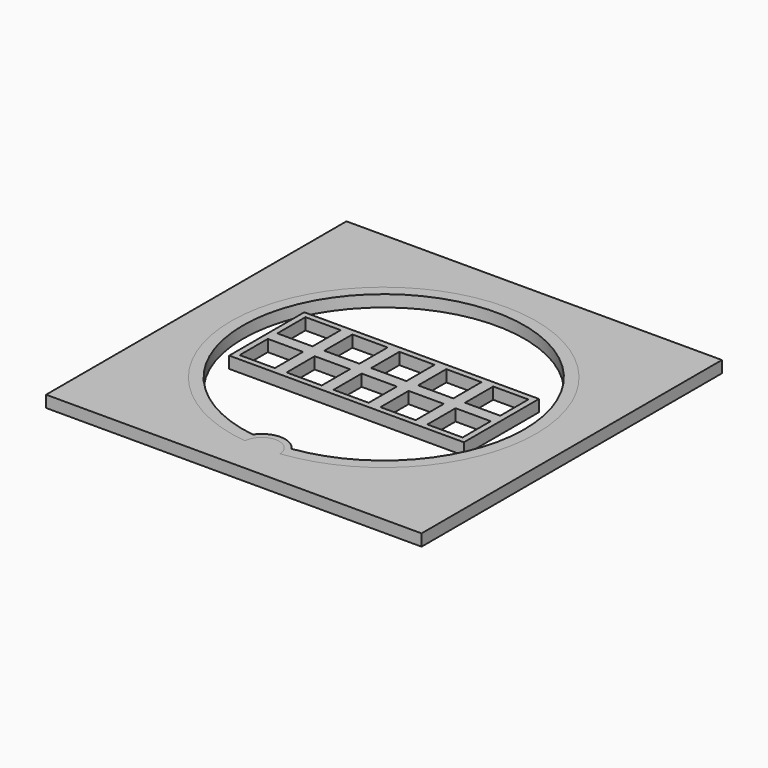
from build123d import *

# Parameters (mm, degrees)
F0_W     = 3
F0_H     = 3
F1_DEPTH = 1
F0_W_2   = 32
F0_H_2   = 32
F2_DEPTH = 1


with BuildPart() as f1:
    # F0 (on Top) → F1 (new body)
    with BuildSketch(Plane.XY):
        Polygon((10, 3.5), (10, 4), (6.5, 4), (6, 4), (2.5, 4), (2, 4), (-1.5, 4), (-2, 4), (-5.5, 4), (-6, 4), (-6.5, 4), (-9.5, 4), (-10, 4), (-10, 3.5), (-10, -0.0124705449), (-10, -0.5124705449), (-10, -4), (-6.5, -4), (-6, -4), (-5.5, -4), (-2, -4), (-1.5, -4), (2, -4), (2.5, -4), (6, -4), (6.5, -4), (10, -4), (10, -0.5124705449), (10, -0.0124705449), align=None)
        with Locations((-8, -2.0124705449)):
            Rectangle(F0_W, F0_H, mode=Mode.SUBTRACT)
        with Locations((-4, -2.0124705449)):
            Rectangle(F0_W, F0_H, mode=Mode.SUBTRACT)
        with Locations((0, -2.0124705449)):
            Rectangle(F0_W, F0_H, mode=Mode.SUBTRACT)
        with Locations((4, -2.0124705449)):
            Rectangle(F0_W, F0_H, mode=Mode.SUBTRACT)
        with Locations((8, -2.0124705449)):
            Rectangle(F0_W, F0_H, mode=Mode.SUBTRACT)
        with Locations((-8, 2)):
            Rectangle(F0_W, F0_H, mode=Mode.SUBTRACT)
        with Locations((-4, 2)):
            Rectangle(F0_W, F0_H, mode=Mode.SUBTRACT)
        with Locations((0, 2)):
            Rectangle(F0_W, F0_H, mode=Mode.SUBTRACT)
        with Locations((4, 2)):
            Rectangle(F0_W, F0_H, mode=Mode.SUBTRACT)
        with Locations((8, 2)):
            Rectangle(F0_W, F0_H, mode=Mode.SUBTRACT)
    extrude(amount=F1_DEPTH)


with BuildPart() as f1b:
    # F0 (on Top) → F1, piece 2 (new body)
    with BuildSketch(Plane.XY):
        with BuildLine():
            ThreePointArc((-1.5083979477, -12.9394788722), (-0.0108963301, -11.5260173337), (1.4866052875, -12.9394788722))
            ThreePointArc((1.4866052875, -12.9394788722), (-0.0108963301, 12.9739826663), (-1.5083979477, -12.9394788722))
        make_face()
        with BuildLine():
            ThreePointArc((-1.6663219417, -11.9037134335), (-0.0108963301, 11.9664844317), (1.6445292815, -11.9037134335))
            ThreePointArc((1.6445292815, -11.9037134335), (-0.0108963301, -11.0260173337), (-1.6663219417, -11.9037134335))
        make_face(mode=Mode.SUBTRACT)
    extrude(amount=F1_DEPTH)


with BuildPart() as f2:
    # F0 (on Top) → F2 (new body)
    with BuildSketch(Plane.XY):
        with Locations((0.0026504587, -0.0124705449)):
            Rectangle(F0_W_2, F0_H_2)
        with BuildLine():
            ThreePointArc((-1.5083979477, -12.9394788722), (-0.0108963301, 12.9739826663), (1.4866052875, -12.9394788722))
            ThreePointArc((1.4866052875, -12.9394788722), (-0.0108963301, -11.5260173337), (-1.5083979477, -12.9394788722))
        make_face(mode=Mode.SUBTRACT)
    extrude(amount=F2_DEPTH)


solid = Compound([f1.part, f1b.part, f2.part])
